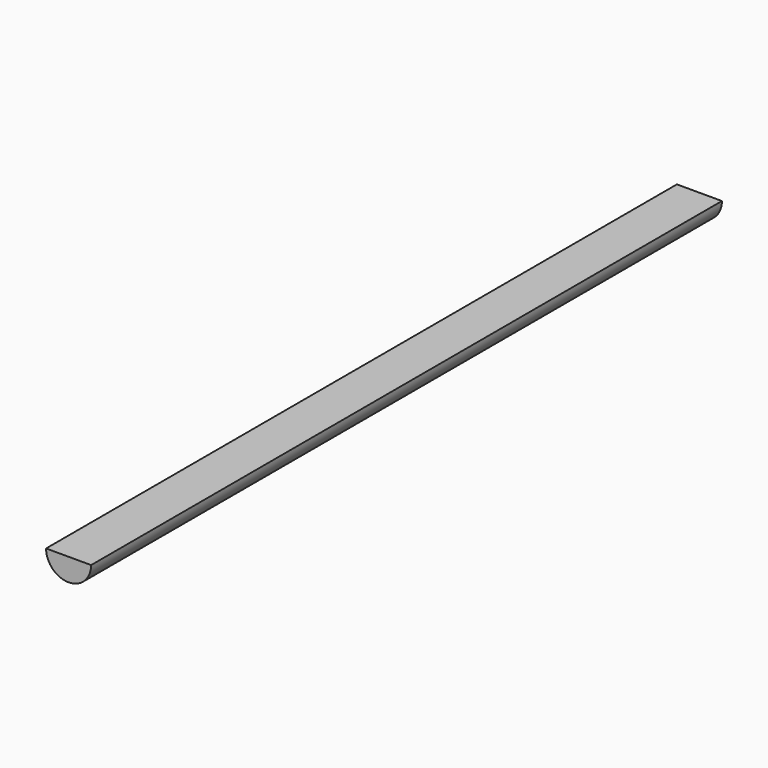
from build123d import *

# Parameters (mm, degrees)
F1_DEPTH = 70
F4_DEPTH = 20
F6_DEPTH = 15
F7_W     = 5.162358
F7_H     = 3.251191
F8_DEPTH = 100


with BuildPart() as f1:
    # F0 (on Front) → F1 (new body)
    with BuildSketch(Plane.XZ):
        with BuildLine():
            Line((-0.5, 2.5), (-0.5, 1.936492))
            ThreePointArc((-0.5, 1.936492), (0, -2), (0.5, 1.936492))
            Line((0.5, 1.936492), (0.5, 2.5))
            Line((0.5, 2.5), (-0.5, 2.5))
        make_face()
        with BuildLine():
            Line((-0.5, 2.5), (-0.5, 1.936492))
            ThreePointArc((-0.5, 1.936492), (0, -2), (0.5, 1.936492))
            Line((0.5, 1.936492), (0.5, 2.5))
            Line((0.5, 2.5), (-0.5, 2.5))
        make_face()
    extrude(amount=F1_DEPTH)

    # F3 (on offset) → F4 (cut)
    with BuildSketch(Plane(origin=(0, -60, 0.089144), x_dir=(1, 0, 0), z_dir=(0, -1, 0))):
        with BuildLine():
            ThreePointArc((-0.5, 1.936492), (0.000638, 2), (0.501235, 1.936172))
            Line((0.501235, 1.936172), (0.5, 2.5))
            Line((0.5, 2.5), (-0.5, 2.5))
            Line((-0.5, 2.5), (-0.5, 1.936492))
        make_face()
    extrude(amount=-F4_DEPTH, mode=Mode.SUBTRACT)

    # F5 (on face) → F6 (cut)
    with BuildSketch(Plane.XZ.offset(60)):
        with BuildLine():
            Line((-0.5, 2.5), (-0.5, 1.936492))
            ThreePointArc((-0.5, 1.936492), (0, 2), (0.5, 1.936492))
            Line((0.5, 1.936492), (0.5, 2.5))
            Line((0.5, 2.5), (-0.5, 2.5))
        make_face()
    extrude(amount=-F6_DEPTH, mode=Mode.SUBTRACT)

    # F7 (on face) → F8 (cut)
    with BuildSketch(Plane.XZ.offset(70)):
        with Locations((0.0082, 1.625595)):
            Rectangle(F7_W, F7_H)
    extrude(amount=-F8_DEPTH, mode=Mode.SUBTRACT)


solid = f1.part
